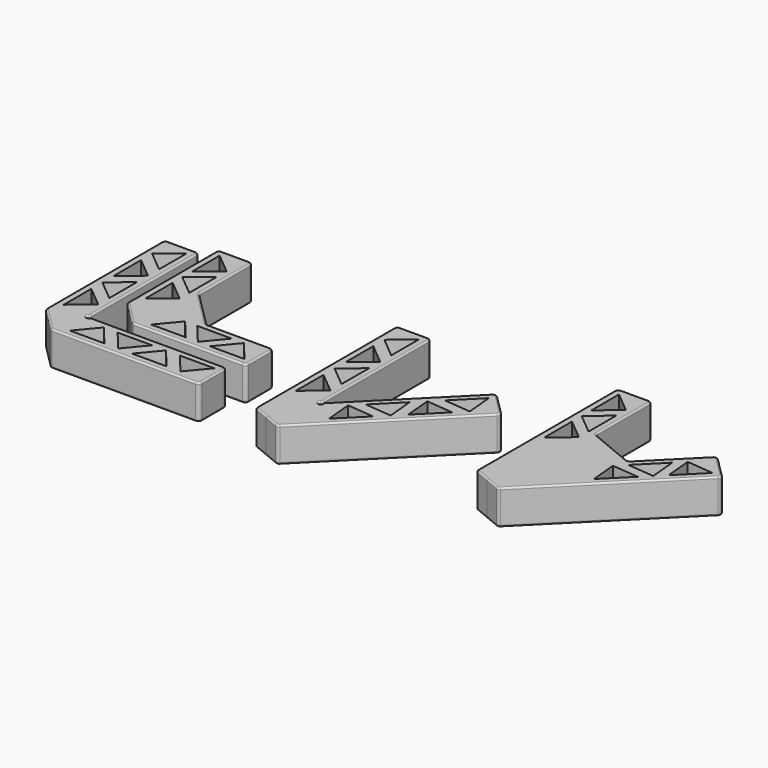
from build123d import *

# Parameters (mm, degrees)
F2_DEPTH = 20
F3_R     = 2
F4_R     = 1


with BuildPart() as f2:
    # F0 (on Top) + F1 (on Top) → F2 (new body)
    with BuildSketch(Plane.XY):
        with BuildLine():
            Line((20, 100), (0, 100))
            Line((0, 100), (0, 14.142136))
            Line((0, 14.142136), (7.071068, 7.071068))
            Line((7.071068, 7.071068), (19.292893, 19.292893))
            ThreePointArc((19.292893, 19.292893), (19.07612, 20.382683), (20, 21))
            Line((20, 21), (20, 100))
        make_face()
        Polygon((16, 32), (4, 22), (4, 42), align=None, mode=Mode.SUBTRACT)
        Polygon((4, 50), (16, 60), (16, 40), align=None, mode=Mode.SUBTRACT)
        Polygon((16, 68), (4, 58), (4, 78), align=None, mode=Mode.SUBTRACT)
        Polygon((4, 86), (16, 96), (16, 76), align=None, mode=Mode.SUBTRACT)
        Polygon((45.005395, 107.581717), (25.005395, 107.581717), (25.005395, 41.723852), (32.076463, 34.652784), (55.611997, 58.188318), (45.005395, 68.79492), align=None)
        Polygon((41.005395, 59.581717), (29.005395, 49.581717), (29.005395, 69.581717), align=None, mode=Mode.SUBTRACT)
        Polygon((29.005395, 76.581717), (41.005395, 86.581717), (41.005395, 66.581717), align=None, mode=Mode.SUBTRACT)
        Polygon((41.005395, 93.581717), (29.005395, 83.581717), (29.005395, 103.581717), align=None, mode=Mode.SUBTRACT)
        Polygon((55.611997, 58.188318), (32.076463, 34.652784), (39.147531, 27.581717), (105.005395, 27.581717), (105.005395, 47.581717), (66.218599, 47.581717), align=None)
        Polygon((67.005395, 31.581717), (47.005395, 31.581717), (57.005395, 43.581717), align=None, mode=Mode.SUBTRACT)
        Polygon((74.005395, 31.581717), (64.005395, 43.581717), (84.005395, 43.581717), align=None, mode=Mode.SUBTRACT)
        Polygon((101.005395, 31.581717), (81.005395, 31.581717), (91.005395, 43.581717), align=None, mode=Mode.SUBTRACT)
        with BuildLine():
            Line((19.292893, 19.292893), (7.071068, 7.071068))
            Line((7.071068, 7.071068), (14.142136, 0))
            Line((14.142136, 0), (100, 0))
            Line((100, 0), (100, 20))
            Line((100, 20), (21, 20))
            ThreePointArc((21, 20), (20.382683, 19.07612), (19.292893, 19.292893))
        make_face()
        Polygon((22, 4), (32, 16), (42, 4), align=None, mode=Mode.SUBTRACT)
        Polygon((50, 4), (40, 16), (60, 16), align=None, mode=Mode.SUBTRACT)
        Polygon((58, 4), (68, 16), (78, 4), align=None, mode=Mode.SUBTRACT)
        Polygon((96, 16), (86, 4), (76, 16), align=None, mode=Mode.SUBTRACT)
    with BuildSketch(Plane.XY):
        with BuildLine():
            Line((154.566228, 99.772923), (134.566228, 99.772923))
            Line((134.566228, 99.772923), (134.566228, -2.380089))
            Line((134.566228, -2.380089), (143.805024, -6.206924))
            Line((143.805024, -6.206924), (154.183545, 18.849043))
            ThreePointArc((154.183545, 18.849043), (153.585443, 19.968013), (154.566228, 20.772923))
            Line((154.566228, 20.772923), (154.566228, 99.772923))
        make_face()
        Polygon((150.566228, 31.772923), (138.566228, 21.772923), (138.566228, 41.772923), align=None, mode=Mode.SUBTRACT)
        Polygon((138.566228, 49.772923), (150.566228, 59.772923), (150.566228, 39.772923), align=None, mode=Mode.SUBTRACT)
        Polygon((150.566228, 67.772923), (138.566228, 57.772923), (138.566228, 77.772923), align=None, mode=Mode.SUBTRACT)
        Polygon((138.566228, 85.772923), (150.566228, 95.772923), (150.566228, 75.772923), align=None, mode=Mode.SUBTRACT)
        with BuildLine():
            Line((154.183545, 18.849043), (143.805024, -6.206924))
            Line((143.805024, -6.206924), (153.043819, -10.033758))
            Line((153.043819, -10.033758), (225.276907, 62.19933))
            Line((225.276907, 62.19933), (211.134771, 76.341465))
            Line((211.134771, 76.341465), (155.273335, 20.480029))
            ThreePointArc((155.273335, 20.480029), (155.397698, 19.217352), (154.183545, 18.849043))
        make_face()
        Polygon((167.29415, 9.873428), (165.879937, 25.429777), (181.436286, 24.015563), align=None, mode=Mode.SUBTRACT)
        Polygon((187.09314, 29.672418), (171.536791, 31.086631), (185.678927, 45.228767), align=None, mode=Mode.SUBTRACT)
        Polygon((192.749995, 35.329272), (191.335781, 50.885621), (206.89213, 49.471408), align=None, mode=Mode.SUBTRACT)
        Polygon((211.134771, 70.684611), (212.548984, 55.128262), (196.992635, 56.542475), align=None, mode=Mode.SUBTRACT)
        Polygon((270.78097, 114.255346), (250.78097, 114.255346), (250.78097, 12.102334), (260.019765, 8.2755), (284.639163, 67.711984), (270.78097, 73.452235), align=None)
        Polygon((266.78097, 66.255346), (254.78097, 56.255346), (254.78097, 76.255346), align=None, mode=Mode.SUBTRACT)
        Polygon((254.78097, 83.255346), (266.78097, 93.255346), (266.78097, 73.255346), align=None, mode=Mode.SUBTRACT)
        Polygon((266.78097, 100.255346), (254.78097, 90.255346), (254.78097, 110.255346), align=None, mode=Mode.SUBTRACT)
        Polygon((284.639163, 67.711984), (260.019765, 8.2755), (269.258561, 4.448666), (341.491648, 76.681753), (327.349512, 90.823889), (298.497356, 61.971732), align=None)
        Polygon((311.793163, 52.640123), (297.651028, 38.497987), (296.236814, 54.054336), align=None, mode=Mode.SUBTRACT)
        Polygon((316.742911, 57.58987), (301.186561, 59.004084), (315.328697, 73.146219), align=None, mode=Mode.SUBTRACT)
        Polygon((335.834794, 76.681753), (321.692658, 62.539618), (320.278445, 78.095967), align=None, mode=Mode.SUBTRACT)
    extrude(amount=F2_DEPTH)

    # F3
    f3_edges = [f2.edges().sort_by_distance(p)[0] for p in [
        (105.005395, 47.581717, 10),
        (105.005395, 27.581717, 10),
        (100, 20, 10),
        (100, 0, 10),
        (39.147531, 27.581717, 10),
        (66.218599, 47.581717, 10),
        (45.005395, 68.79492, 10),
        (45.005395, 107.581717, 10),
        (25.005395, 107.581717, 10),
        (25.005395, 41.723852, 10),
        (0, 14.142136, 10),
        (14.142136, 0, 10),
        (0, 100, 10),
        (20, 100, 10),
        (20, 21, 10),
        (21, 20, 10),
        (153.043819, -10.033758, 10),
        (134.566228, -2.380089, 10),
        (269.258561, 4.448666, 10),
        (250.78097, 12.102334, 10),
        (341.491648, 76.681753, 10),
        (327.349512, 90.823889, 10),
        (270.78097, 73.452235, 10),
        (270.78097, 114.255346, 10),
        (250.78097, 114.255346, 10),
        (298.497356, 61.971732, 10),
        (225.276907, 62.19933, 10),
        (211.134771, 76.341465, 10),
        (154.566228, 99.772923, 10),
        (134.566228, 99.772923, 10),
        (155.273335, 20.480029, 10),
        (154.566228, 20.772923, 10),
    ]]
    fillet(f3_edges, radius=F3_R)

    # F4
    f4_edges = [f2.edges().sort_by_distance(p)[0] for p in [
        (0, 56.485281, 20),
        (32.076463, 34.652784, 20),
        (60.118034, 20, 0),
        (71.490677, 27.581717, 0),
        (154.566228, 59.890957, 20),
        (154.566228, 59.890957, 0),
        (284.639163, 67.711984, 20),
        (284.639163, 67.711984, 0),
    ]]
    fillet(f4_edges, radius=F4_R)


solid = f2.part
